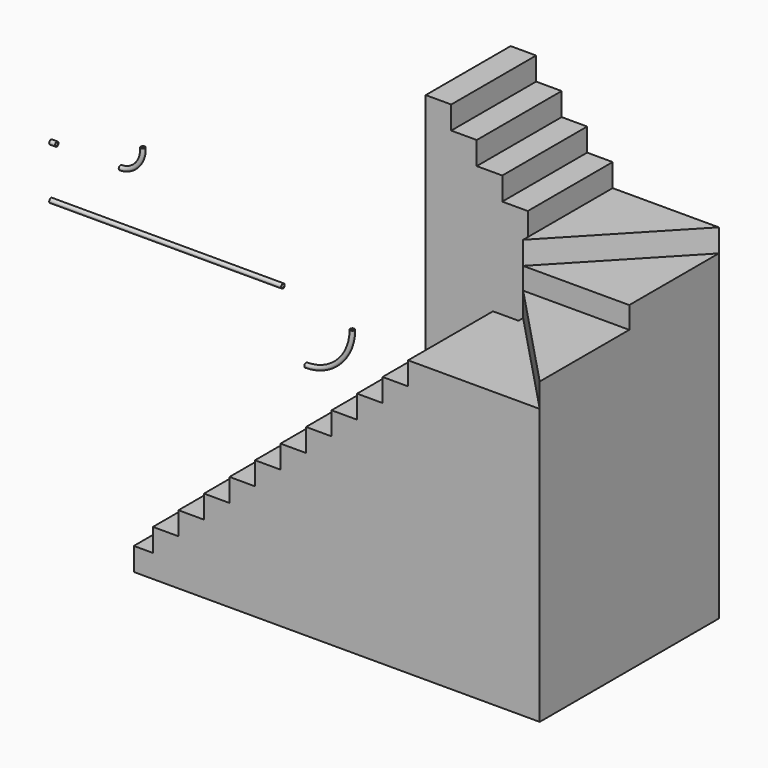
from build123d import *

# Parameters (mm, degrees)
F8_R      = 19
F8_R_2    = 15.5
F6_R      = 19
F6_R_2    = 15.5
F2_R      = 19
F2_R_2    = 15.5
F4_R      = 19
F4_R_2    = 15.2
F13_W     = 165
F13_H     = 915
F14_DEPTH = 198
F13_W_2   = 220
F15_DEPTH = 396
F16_DEPTH = 594
F17_DEPTH = 792
F18_DEPTH = 990
F19_DEPTH = 1188
F20_DEPTH = 1386
F21_DEPTH = 1584
F22_DEPTH = 1782
F23_DEPTH = 1980
F24_DEPTH = 2178
F25_DEPTH = 2376
F26_DEPTH = 2376
F27_DEPTH = 2584
F28_DEPTH = 2772
F29_DEPTH = 2970
F30_DEPTH = 3168
F31_DEPTH = 3366
F32_DEPTH = 3564
F33_DEPTH = 3762
F36_R     = 19
F36_R_2   = 15.5
F38_R     = 19
F38_R_2   = 15.5
F40_R     = 19
F40_R_2   = 15.5


with BuildPart() as f9:
    # F9: sweep along a path in F0
    with BuildLine(Plane.XZ) as f9_path:
        ThreePointArc((1022.6436853409, -400), (1142.9260051426, -381.4867802993), (1252.0742598813, -327.6608177156))
    # F8 (on plane+point) → F9 (sweep)
    with BuildSketch(Plane.YZ.offset(1022.6436853409)):
        with Locations((0, -400)):
            Circle(F8_R)
        with Locations((0, -400)):
            Circle(F8_R_2, mode=Mode.SUBTRACT)
    sweep(path=f9_path.line)


with BuildPart() as f10:
    # F10: sweep along a path in F0
    with BuildLine(Plane.XZ) as f10_path:
        ThreePointArc((1022.6436853409, 626.5649557114), (1191.6909900372, 664.0418408967), (1329.0614625885, 769.4499118367))
    # F6 (on plane+point) → F10 (sweep)
    with BuildSketch(Plane.YZ.offset(1022.6436853409)):
        with Locations((0, 626.5649557114)):
            Circle(F6_R)
        with Locations((0, 626.5649557114)):
            Circle(F6_R_2, mode=Mode.SUBTRACT)
    sweep(path=f10_path.line)


with BuildPart() as f11:
    # F11: sweep along a path in F0
    with BuildLine(Plane.XZ) as f11_path:
        ThreePointArc((-72.0964744687, 626.5649557114), (210.7462380059, 743.7222432367), (327.9035255313, 1026.5649557114))
    # F2 (on plane+point) → F11 (sweep)
    with BuildSketch(Plane.YZ.offset(-72.0964744687)):
        with Locations((0, 626.5649557114)):
            Circle(F2_R)
        with Locations((0, 626.5649557114)):
            Circle(F2_R_2, mode=Mode.SUBTRACT)
    sweep(path=f11_path.line)


with BuildPart() as f12:
    # F12: sweep along a path in F0
    with BuildLine(Plane.XZ) as f12_path:
        ThreePointArc((-72.0964744687, -400), (71.2507053494, -373.4321705989), (195.5557680748, -297.257930191))
    # F4 (on plane+point) → F12 (sweep)
    with BuildSketch(Plane.YZ.offset(-72.0964744687)):
        with Locations((0, -400)):
            Circle(F4_R)
        with Locations((0, -400)):
            Circle(F4_R_2, mode=Mode.SUBTRACT)
    sweep(path=f12_path.line)


with BuildPart() as f14:
    # F13 (on Top) → F14 (new body)
    with BuildSketch(Plane.XY):
        with Locations((237.6849842072, -1682.9278278351)):
            Rectangle(F13_W, F13_H)
    extrude(amount=F14_DEPTH)

    # F13 (on Top) → F15 (join)
    with BuildSketch(Plane.XY):
        with Locations((430.1849842072, -1682.9278278351)):
            Rectangle(F13_W_2, F13_H)
    extrude(amount=F15_DEPTH)

    # F13 (on Top) → F16 (join)
    with BuildSketch(Plane.XY):
        with Locations((650.1849842072, -1682.9278278351)):
            Rectangle(F13_W_2, F13_H)
    extrude(amount=F16_DEPTH)

    # F13 (on Top) → F17 (join)
    with BuildSketch(Plane.XY):
        with Locations((870.1849842072, -1682.9278278351)):
            Rectangle(F13_W_2, F13_H)
    extrude(amount=F17_DEPTH)

    # F13 (on Top) → F18 (join)
    with BuildSketch(Plane.XY):
        with Locations((1090.1849842072, -1682.9278278351)):
            Rectangle(F13_W_2, F13_H)
    extrude(amount=F18_DEPTH)

    # F13 (on Top) → F19 (join)
    with BuildSketch(Plane.XY):
        with Locations((1310.1849842072, -1682.9278278351)):
            Rectangle(F13_W_2, F13_H)
    extrude(amount=F19_DEPTH)

    # F13 (on Top) → F20 (join)
    with BuildSketch(Plane.XY):
        with Locations((1530.1849842072, -1682.9278278351)):
            Rectangle(F13_W_2, F13_H)
    extrude(amount=F20_DEPTH)

    # F13 (on Top) → F21 (join)
    with BuildSketch(Plane.XY):
        with Locations((1750.1849842072, -1682.9278278351)):
            Rectangle(F13_W_2, F13_H)
    extrude(amount=F21_DEPTH)

    # F13 (on Top) → F22 (join)
    with BuildSketch(Plane.XY):
        with Locations((1970.1849842072, -1682.9278278351)):
            Rectangle(F13_W_2, F13_H)
    extrude(amount=F22_DEPTH)

    # F13 (on Top) → F23 (join)
    with BuildSketch(Plane.XY):
        with Locations((2190.1849842072, -1682.9278278351)):
            Rectangle(F13_W_2, F13_H)
    extrude(amount=F23_DEPTH)

    # F13 (on Top) → F24 (join)
    with BuildSketch(Plane.XY):
        with Locations((2410.1849842072, -1682.9278278351)):
            Rectangle(F13_W_2, F13_H)
    extrude(amount=F24_DEPTH)

    # F13 (on Top) → F25 (join)
    with BuildSketch(Plane.XY):
        with Locations((2630.1849842072, -1682.9278278351)):
            Rectangle(F13_W_2, F13_H)
    extrude(amount=F25_DEPTH)

    # F13 (on Top) → F26 (join)
    with BuildSketch(Plane.XY):
        Polygon((3655.1849842072, -2140.4278278351), (2740.1849842072, -1175.4278278351), (2740.1849842072, -1225.4278278351), (2740.1849842072, -2140.4278278351), align=None)
    extrude(amount=F26_DEPTH)

    # F13 (on Top) → F27 (join)
    with BuildSketch(Plane.XY):
        Polygon((3655.1849842072, -2140.4278278351), (3655.1849842072, -1175.4278278351), (2740.1849842072, -1175.4278278351), align=None)
    extrude(amount=F27_DEPTH)

    # F13 (on Top) → F28 (join)
    with BuildSketch(Plane.XY):
        Polygon((3655.1849842072, -1175.4278278351), (3655.1849842072, -210.4278278351), (2740.1849842072, -1175.4278278351), align=None)
    extrude(amount=F28_DEPTH)

    # F13 (on Top) → F29 (join)
    with BuildSketch(Plane.XY):
        Polygon((3655.1849842072, -210.4278278351), (2740.1849842072, -210.4278278351), (2740.1849842072, -1125.4278278351), (2740.1849842072, -1175.4278278351), align=None)
    extrude(amount=F29_DEPTH)

    # F13 (on Top) → F30 (join)
    with BuildSketch(Plane.XY):
        with Locations((2630.1849842072, -667.9278278351)):
            Rectangle(F13_W_2, F13_H)
    extrude(amount=F30_DEPTH)

    # F13 (on Top) → F31 (join)
    with BuildSketch(Plane.XY):
        with Locations((2410.1849842072, -667.9278278351)):
            Rectangle(F13_W_2, F13_H)
    extrude(amount=F31_DEPTH)

    # F13 (on Top) → F32 (join)
    with BuildSketch(Plane.XY):
        with Locations((2190.1849842072, -667.9278278351)):
            Rectangle(F13_W_2, F13_H)
    extrude(amount=F32_DEPTH)

    # F13 (on Top) → F33 (join)
    with BuildSketch(Plane.XY):
        with Locations((1970.1849842072, -667.9278278351)):
            Rectangle(F13_W_2, F13_H)
    extrude(amount=F33_DEPTH)


with BuildPart() as f41:
    # F41: sweep along a path in F34
    with BuildLine(Plane.XZ) as f41_path:
        Line((-2271.4861869812, 1604.5726537704), (-2221.4861869812, 1604.5726537704))
    # F36 (on plane+point) → F41 (sweep)
    with BuildSketch(Plane.YZ.offset(-2271.4861869812)):
        with Locations((0, 1604.5726537704)):
            Circle(F36_R)
        with Locations((0, 1604.5726537704)):
            Circle(F36_R_2, mode=Mode.SUBTRACT)
    sweep(path=f41_path.line)


with BuildPart() as f42:
    # F42: sweep along a path in F34
    with BuildLine(Plane.XZ) as f42_path:
        ThreePointArc((-1672.0149517059, 1604.5726537704), (-1529.270392945, 1671.9544629138), (-1479.8489848613, 1821.8672431639))
    # F38 (on plane+point) → F42 (sweep)
    with BuildSketch(Plane.YZ.offset(-1672.0149517059)):
        with Locations((0, 1604.5726537704)):
            Circle(F38_R)
        with Locations((0, 1604.5726537704)):
            Circle(F38_R_2, mode=Mode.SUBTRACT)
    sweep(path=f42_path.line)


with BuildPart() as f43:
    # F43: sweep along a path in F34
    with BuildLine(Plane.XZ) as f43_path:
        Line((-2271.4861869812, 1161.6673469543), (-271.4861869812, 1161.6673469543))
    # F40 (on plane+point) → F43 (sweep)
    with BuildSketch(Plane.YZ.offset(-2271.4861869812)):
        with Locations((0, 1161.6673469543)):
            Circle(F40_R)
        with Locations((0, 1161.6673469543)):
            Circle(F40_R_2, mode=Mode.SUBTRACT)
    sweep(path=f43_path.line)


solid = Compound([f9.part, f10.part, f11.part, f12.part, f14.part, f41.part, f42.part, f43.part])
